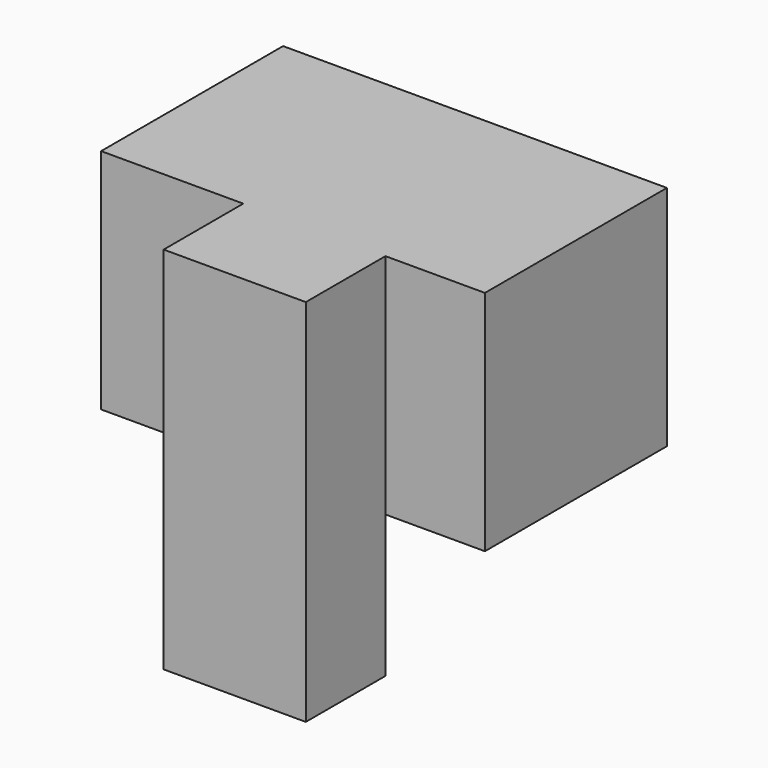
from build123d import *

# Parameters (mm, degrees)
F0_W     = 40.64
F0_H     = 40.64
F1_DEPTH = 68.58
F2_W     = 25.4
F2_H     = 40.64
F3_DEPTH = 17.78
F4_W     = 25.4
F4_H     = 17.78
F5_DEPTH = 25.4


with BuildPart() as f1:
    # F0 (on Right) → F1 (new body)
    with BuildSketch(Plane.YZ):
        with Locations((-38.1975453347, 20.5620517739)):
            Rectangle(F0_W, F0_H)
    extrude(amount=-F1_DEPTH)

    # F2 (on face) → F3 (join)
    with BuildSketch(Plane.XZ.offset(58.5175453347)):
        with Locations((-30.48, 20.5620517739)):
            Rectangle(F2_W, F2_H)
    extrude(amount=F3_DEPTH)

    # F4 (on face) → F5 (join)
    with BuildSketch(Plane(origin=(0, 0, 0.2420517739), x_dir=(1, 0, 0), z_dir=(0, 0, -1))):
        with Locations((-30.48, 67.4075453347)):
            Rectangle(F4_W, F4_H)
    extrude(amount=F5_DEPTH)


solid = f1.part
